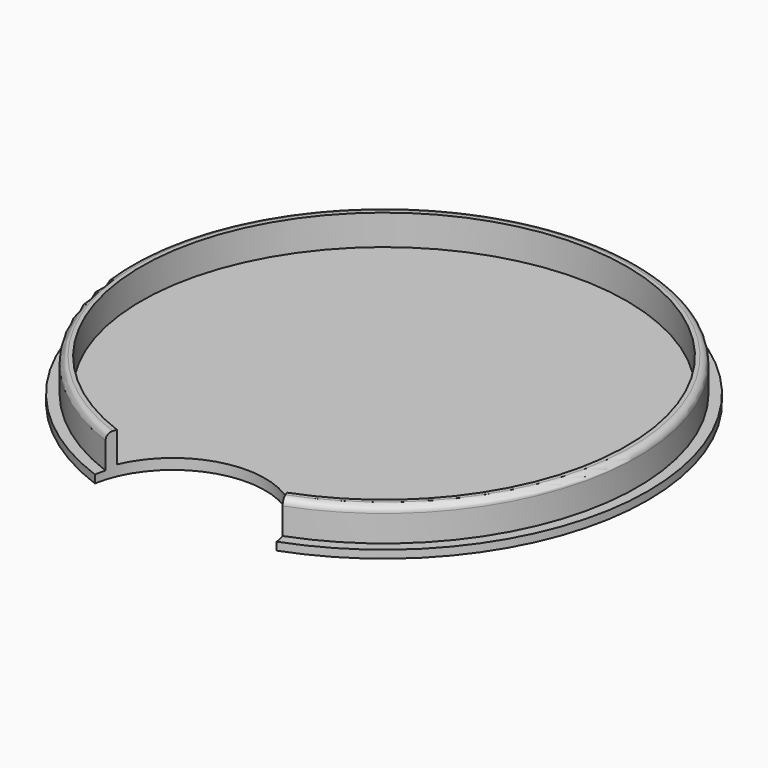
from build123d import *

# Parameters (mm, degrees)
F0_R     = 20
F1_DEPTH = 0.6
F3_R     = 19.2
F4_DEPTH = 2.5
F5_T     = -0.8
F6_R     = 0.5
F9_D     = 14
F9_DEPTH = 4


with BuildPart() as f1:
    # F0 (on Top) → F1 (new body)
    with BuildSketch(Plane.XY):
        Circle(F0_R)
    extrude(amount=F1_DEPTH)

    # F3 (on face) → F4 (join)
    with BuildSketch(Plane.XY.offset(0.6)):
        Circle(F3_R)
    extrude(amount=F4_DEPTH)

    # F5
    f5_openings = [f1.faces().sort_by_distance(p)[0] for p in [
        (0, 0, 3.1),
    ]]
    offset(amount=F5_T, openings=f5_openings)

    # F6
    f6_edges = [f1.edges().sort_by_distance(p)[0] for p in [
        (-19.2, 0, 3.1),
    ]]
    fillet(f6_edges, radius=F6_R)

    # F9
    with Locations(Plane.XY.offset(3.1)):
        with Locations((0, -20)):
            Hole(F9_D / 2, depth=F9_DEPTH)


solid = f1.part
